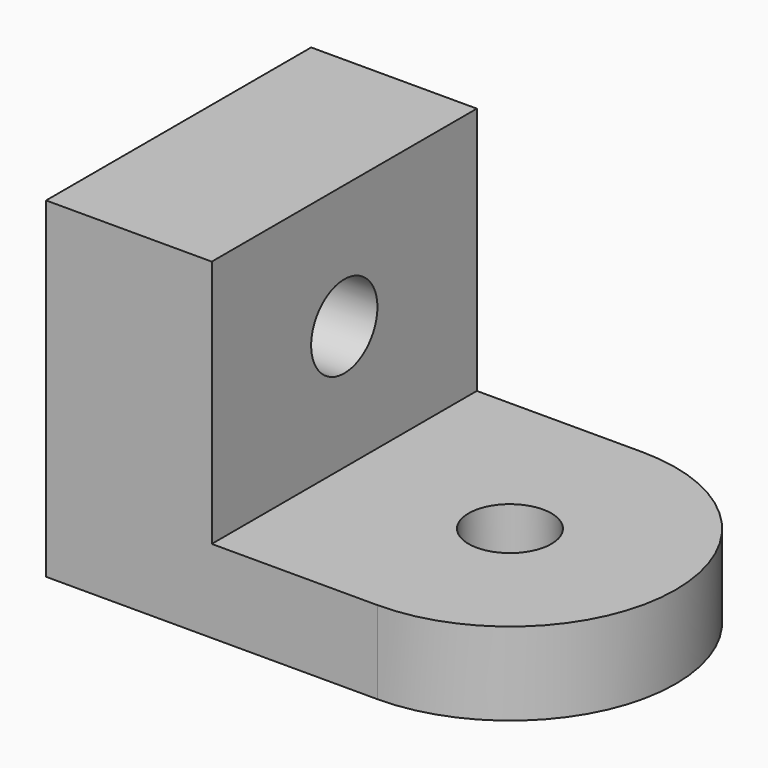
from build123d import *

# Parameters (mm, degrees)
F0_W     = 50.8
F0_H     = 38.1
F0_R     = 6.35
F1_DEPTH = 25.4
F2_R     = 6.35
F3_DEPTH = 12.7


with BuildPart() as f1:
    # F0 (on Right) → F1 (new body)
    with BuildSketch(Plane.YZ):
        with Locations((-25.4, 19.05)):
            Rectangle(F0_W, F0_H)
        with Locations((-25.4, 19.05)):
            Circle(F0_R, mode=Mode.SUBTRACT)
    extrude(amount=F1_DEPTH)

    # F2 (on Top) → F3 (join)
    with BuildSketch(Plane.XY):
        with BuildLine():
            Line((0, -50.8), (50.8, -50.8))
            ThreePointArc((50.8, -50.8), (76.2, -25.4), (50.8, 0))
            Line((50.8, 0), (0, 0))
            Line((0, 0), (0, -50.8))
        make_face()
        with Locations((50.8, -25.4)):
            Circle(F2_R, mode=Mode.SUBTRACT)
    extrude(amount=-F3_DEPTH)


solid = f1.part
